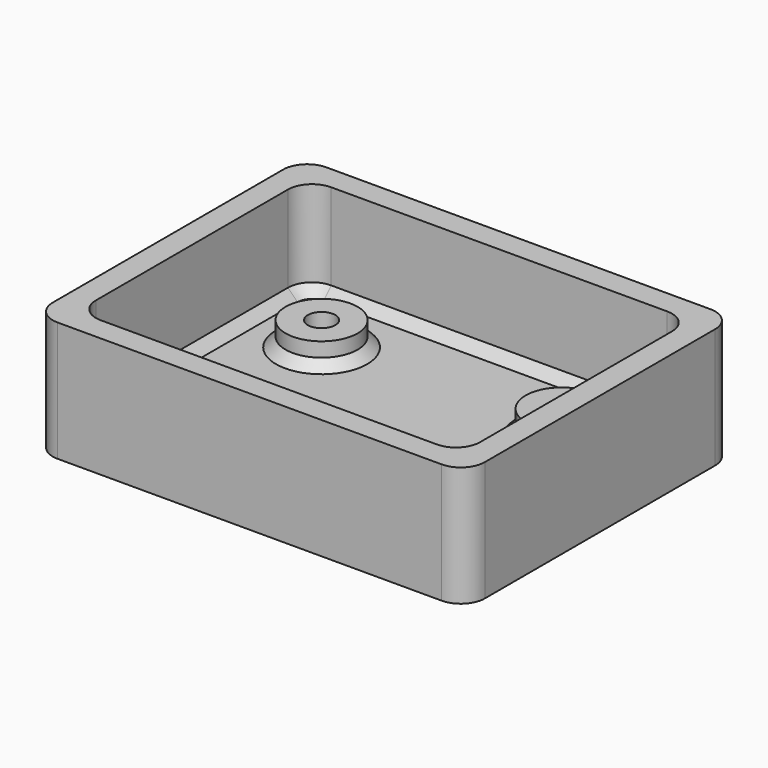
from build123d import *

# Parameters (mm, degrees)
F0_W     = 90
F0_H     = 70
F0_W_2   = 80
F0_H_2   = 60
F1_DEPTH = 25
F0_R     = 7.5
F2_DEPTH = 5
F0_R_2   = 2.8629120086
F3_DEPTH = 10
F4_R     = 5
F5_SIZE  = 2


with BuildPart() as f1:
    # F0 (on Top) → F1 (new body)
    with BuildSketch(Plane.XY):
        Rectangle(F0_W, F0_H)
        Rectangle(F0_W_2, F0_H_2, mode=Mode.SUBTRACT)
    extrude(amount=F1_DEPTH)

    # F0 (on Top) → F2 (join)
    with BuildSketch(Plane.XY):
        Rectangle(F0_W_2, F0_H_2)
        with Locations((-25, -15)):
            Circle(F0_R, mode=Mode.SUBTRACT)
        with Locations((25, -15)):
            Circle(F0_R, mode=Mode.SUBTRACT)
        with Locations((-25, 15)):
            Circle(F0_R, mode=Mode.SUBTRACT)
        with Locations((25, 15)):
            Circle(F0_R, mode=Mode.SUBTRACT)
    extrude(amount=F2_DEPTH)

    # F0 (on Top) → F3 (join)
    with BuildSketch(Plane.XY):
        with Locations((-25, 15)):
            Circle(F0_R)
        with Locations((-25, 15)):
            Circle(F0_R_2, mode=Mode.SUBTRACT)
        with Locations((-25, -15)):
            Circle(F0_R)
        with Locations((-25, -15)):
            Circle(F0_R_2, mode=Mode.SUBTRACT)
        with Locations((25, 15)):
            Circle(F0_R)
        with Locations((25, 15)):
            Circle(F0_R_2, mode=Mode.SUBTRACT)
        with Locations((25, -15)):
            Circle(F0_R)
        with Locations((25, -15)):
            Circle(F0_R_2, mode=Mode.SUBTRACT)
    extrude(amount=F3_DEPTH)

    # F4
    f4_edges = [f1.edges().sort_by_distance(p)[0] for p in [
        (-40, 30, 15),
        (45, 35, 12.5),
        (45, -35, 12.5),
        (-45, -35, 12.5),
        (-45, 35, 12.5),
        (40, -30, 15),
        (-40, -30, 15),
        (40, 30, 15),
    ]]
    fillet(f4_edges, radius=F4_R)

    # F5
    f5_edges = [f1.edges().sort_by_distance(p)[0] for p in [
        (-32.5, 15, 5),
        (17.5, 15, 5),
        (-32.5, -15, 5),
        (0, -30, 5),
        (-38.535534, -28.535534, 5),
        (38.535534, -28.535534, 5),
        (-40, 0, 5),
        (40, 0, 5),
        (-38.535534, 28.535534, 5),
        (38.535534, 28.535534, 5),
        (0, 30, 5),
        (17.5, -15, 5),
    ]]
    chamfer(f5_edges, length=F5_SIZE)


solid = f1.part
